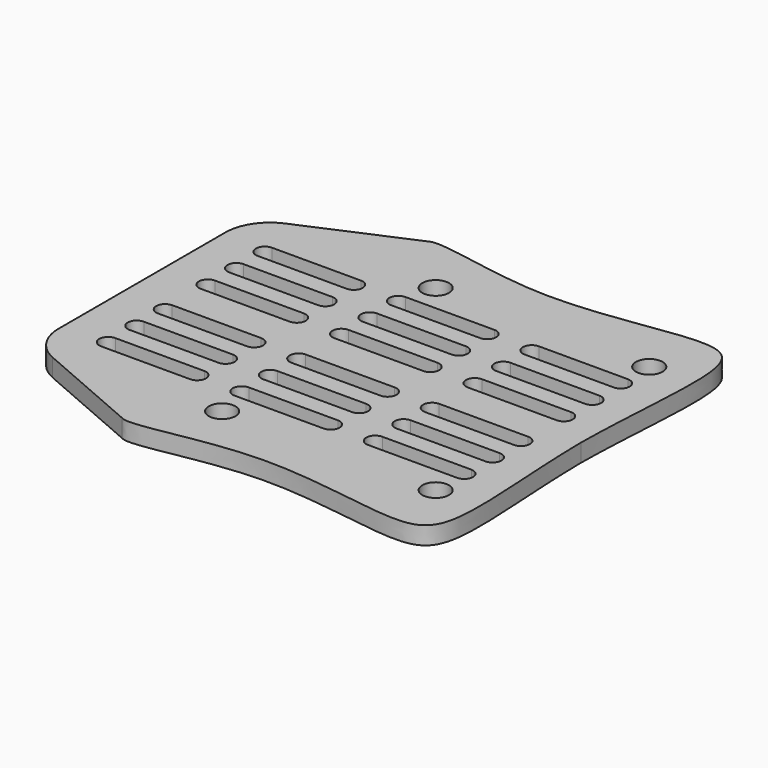
from build123d import *

# Parameters (mm, degrees)
F0_R     = 1.5
F1_DEPTH = 2


with BuildPart() as f1:
    # F0 (on Top) → F1 (new body)
    with BuildSketch(Plane.XY):
        with BuildLine():
            Line((0, 11.7175720427), (0, 0))
            Line((0, 0), (0, -11.7175720427))
            ThreePointArc((0, -11.7175720427), (0.8202121976, -14.4615425103), (3.0117495709, -16.3052577589))
            Line((3.0117495709, -16.3052577589), (14.9127481269, -21.4630141854))
            add(Edge.make_bspline(
                [(14.9127481269, -21.4630141854), (16.1453362968, -22.2976284899), (29.5244774137, -17.90273041), (46.1613565745, -22.7570107884), (51.0473894194, -19.1370147499), (49.3953875501, -8.3510216523), (49.3111349642, 0)],
                knots=[0, 0, 0, 0, 0.260567147, 0.5566425204, 0.6933960099, 1, 1, 1, 1], degree=3))
            add(Edge.make_bspline(
                [(14.9127481269, 21.4630141854), (16.1453362968, 22.2976284899), (29.5244774137, 17.90273041), (46.1613565745, 22.7570107884), (51.0473894194, 19.1370147499), (49.3953875501, 8.3510216523), (49.3111349642, 0)],
                knots=[0, 0, 0, 0, 0.260567147, 0.5566425204, 0.6933960099, 1, 1, 1, 1], degree=3))
            Line((14.9127481269, 21.4630141854), (3.0117495709, 16.3052577589))
            ThreePointArc((3.0117495709, 16.3052577589), (0.8202121976, 14.4615425103), (0, 11.7175720427))
        make_face()
        with Locations((21, -15)):
            Circle(F0_R, mode=Mode.SUBTRACT)
        with BuildLine():
            Line((15, -12), (5, -12))
            ThreePointArc((5, -12), (4, -11), (5, -10))
            Line((5, -10), (15, -10))
            ThreePointArc((15, -10), (16, -11), (15, -12))
        make_face(mode=Mode.SUBTRACT)
        with BuildLine():
            Line((15, -8), (5, -8))
            ThreePointArc((5, -8), (4, -7), (5, -6))
            Line((5, -6), (15, -6))
            ThreePointArc((15, -6), (16, -7), (15, -8))
        make_face(mode=Mode.SUBTRACT)
        with BuildLine():
            Line((15, -4), (5, -4))
            ThreePointArc((5, -4), (4, -3), (5, -2))
            Line((5, -2), (15, -2))
            ThreePointArc((15, -2), (16, -3), (15, -4))
        make_face(mode=Mode.SUBTRACT)
        with BuildLine():
            Line((30, -12), (20, -12))
            ThreePointArc((20, -12), (19, -11), (20, -10))
            Line((20, -10), (30, -10))
            ThreePointArc((30, -10), (31, -11), (30, -12))
        make_face(mode=Mode.SUBTRACT)
        with BuildLine():
            Line((30, -8), (20, -8))
            ThreePointArc((20, -8), (19, -7), (20, -6))
            Line((20, -6), (30, -6))
            ThreePointArc((30, -6), (31, -7), (30, -8))
        make_face(mode=Mode.SUBTRACT)
        with BuildLine():
            Line((30, -4), (20, -4))
            ThreePointArc((20, -4), (19, -3), (20, -2))
            Line((20, -2), (30, -2))
            ThreePointArc((30, -2), (31, -3), (30, -4))
        make_face(mode=Mode.SUBTRACT)
        with Locations((45, -15)):
            Circle(F0_R, mode=Mode.SUBTRACT)
        with BuildLine():
            Line((45, -12), (35, -12))
            ThreePointArc((35, -12), (34, -11), (35, -10))
            Line((35, -10), (45, -10))
            ThreePointArc((45, -10), (46, -11), (45, -12))
        make_face(mode=Mode.SUBTRACT)
        with BuildLine():
            Line((45, -8), (35, -8))
            ThreePointArc((35, -8), (34, -7), (35, -6))
            Line((35, -6), (45, -6))
            ThreePointArc((45, -6), (46, -7), (45, -8))
        make_face(mode=Mode.SUBTRACT)
        with BuildLine():
            Line((45, -4), (35, -4))
            ThreePointArc((35, -4), (34, -3), (35, -2))
            Line((35, -2), (45, -2))
            ThreePointArc((45, -2), (46, -3), (45, -4))
        make_face(mode=Mode.SUBTRACT)
        with BuildLine():
            ThreePointArc((5, 2), (4, 3), (5, 4))
            Line((5, 4), (15, 4))
            ThreePointArc((15, 4), (16, 3), (15, 2))
            Line((15, 2), (5, 2))
        make_face(mode=Mode.SUBTRACT)
        with BuildLine():
            ThreePointArc((5, 6), (4, 7), (5, 8))
            Line((5, 8), (15, 8))
            ThreePointArc((15, 8), (16, 7), (15, 6))
            Line((15, 6), (5, 6))
        make_face(mode=Mode.SUBTRACT)
        with BuildLine():
            ThreePointArc((15, 12), (16, 11), (15, 10))
            Line((15, 10), (5, 10))
            ThreePointArc((5, 10), (4, 11), (5, 12))
            Line((5, 12), (15, 12))
        make_face(mode=Mode.SUBTRACT)
        with BuildLine():
            ThreePointArc((20, 2), (19, 3), (20, 4))
            Line((20, 4), (30, 4))
            ThreePointArc((30, 4), (31, 3), (30, 2))
            Line((30, 2), (20, 2))
        make_face(mode=Mode.SUBTRACT)
        with BuildLine():
            Line((30, 6), (20, 6))
            ThreePointArc((20, 6), (19, 7), (20, 8))
            Line((20, 8), (30, 8))
            ThreePointArc((30, 8), (31, 7), (30, 6))
        make_face(mode=Mode.SUBTRACT)
        with BuildLine():
            ThreePointArc((20, 10), (19, 11), (20, 12))
            Line((20, 12), (30, 12))
            ThreePointArc((30, 12), (31, 11), (30, 10))
            Line((30, 10), (20, 10))
        make_face(mode=Mode.SUBTRACT)
        with Locations((21, 15)):
            Circle(F0_R, mode=Mode.SUBTRACT)
        with BuildLine():
            ThreePointArc((45, 4), (46, 3), (45, 2))
            Line((45, 2), (35, 2))
            ThreePointArc((35, 2), (34, 3), (35, 4))
            Line((35, 4), (45, 4))
        make_face(mode=Mode.SUBTRACT)
        with BuildLine():
            ThreePointArc((35, 6), (34, 7), (35, 8))
            Line((35, 8), (45, 8))
            ThreePointArc((45, 8), (46, 7), (45, 6))
            Line((45, 6), (35, 6))
        make_face(mode=Mode.SUBTRACT)
        with BuildLine():
            ThreePointArc((45, 12), (46, 11), (45, 10))
            Line((45, 10), (35, 10))
            ThreePointArc((35, 10), (34, 11), (35, 12))
            Line((35, 12), (45, 12))
        make_face(mode=Mode.SUBTRACT)
        with Locations((45, 15)):
            Circle(F0_R, mode=Mode.SUBTRACT)
    extrude(amount=F1_DEPTH)


solid = f1.part
